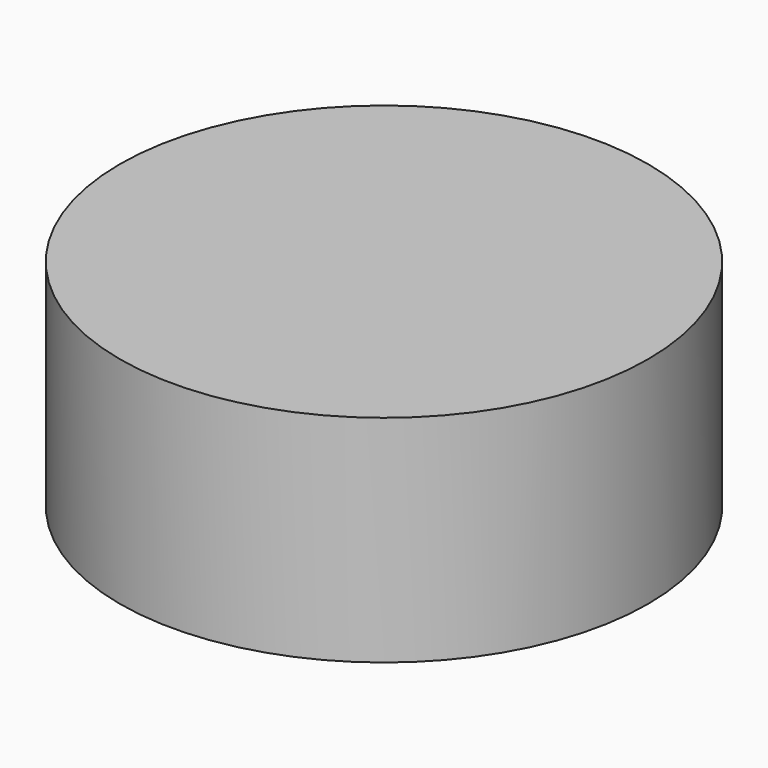
from build123d import *

# Parameters (mm, degrees)
CYLINDER_R     = 18.3896
CYLINDER_DEPTH = 15


with BuildPart() as part:
    # Cylinder → Cylinder (new body)
    with BuildSketch(Plane.XY.offset(-2.5)):
        Circle(CYLINDER_R)
    extrude(amount=CYLINDER_DEPTH)


solid = part.part
